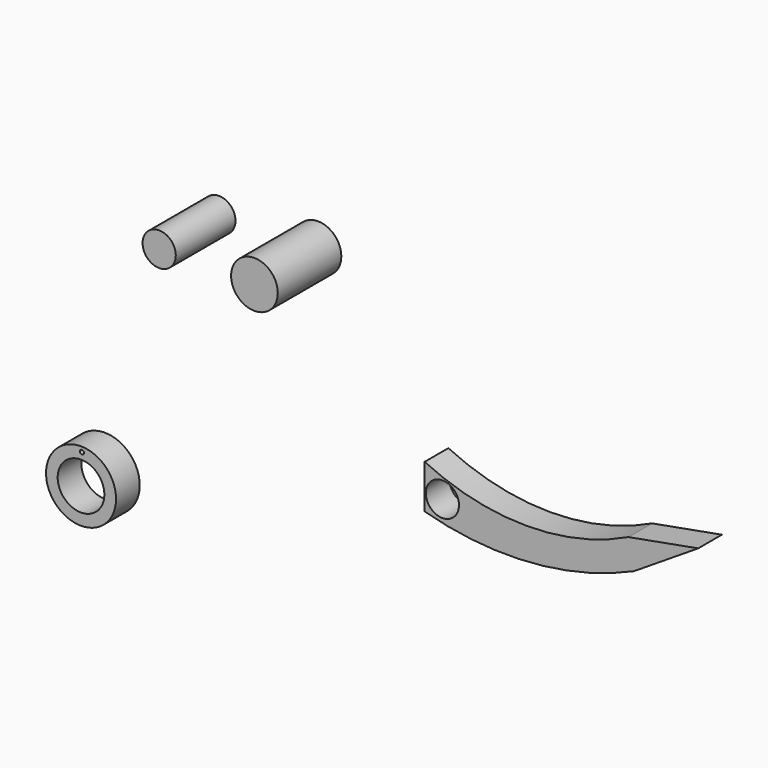
from build123d import *

# Parameters (mm, degrees)
F0_R     = 3.559092
F1_DEPTH = 6.35
F0_R_2   = 7.5
F0_R_3   = 5
F0_R_4   = 0.441854
F2_DEPTH = 6.35
F3_DEPTH = 16.002
F4_DEPTH = 17.018


with BuildPart() as f1:
    # F0 (on Front) → F1 (new body)
    with BuildSketch(Plane.XZ):
        with BuildLine():
            ThreePointArc((43.658202, 0), (21.829101, -4.981335), (0, 0))
            Line((0, 0), (0, -9.372278))
            ThreePointArc((0, -9.372278), (22.712581, -11.630374), (44.844568, -6.050457))
            Line((44.844568, -6.050457), (58.606395, 2.728639))
            Line((58.606395, 2.728639), (43.658202, 0))
        make_face()
        with Locations((3.796365, -5.813184)):
            Circle(F0_R, mode=Mode.SUBTRACT)
    extrude(amount=F1_DEPTH)


with BuildPart() as f2:
    # F0 (on Front) → F2 (new body)
    with BuildSketch(Plane.XZ):
        with Locations((-49.157687, 28.030444)):
            Circle(F0_R)
        with Locations((-73.623779, -28.516083)):
            Circle(F0_R_2)
        with Locations((-73.623779, -28.516083)):
            Circle(F0_R_3, mode=Mode.SUBTRACT)
        with Locations((-73.427692, -22.060107)):
            Circle(F0_R_4, mode=Mode.SUBTRACT)
    extrude(amount=F2_DEPTH)

    # F0 (on Front) → F3 (join)
    with BuildSketch(Plane.XZ):
        with Locations((-49.157687, 28.030444)):
            Circle(F0_R)
    extrude(amount=F3_DEPTH)


with BuildPart() as f4:
    # F0 (on Front) → F4 (new body)
    with BuildSketch(Plane.XZ):
        with Locations((-27.937101, 28.706206)):
            Circle(F0_R_3)
    extrude(amount=F4_DEPTH)


solid = Compound([f1.part, f2.part, f4.part])
